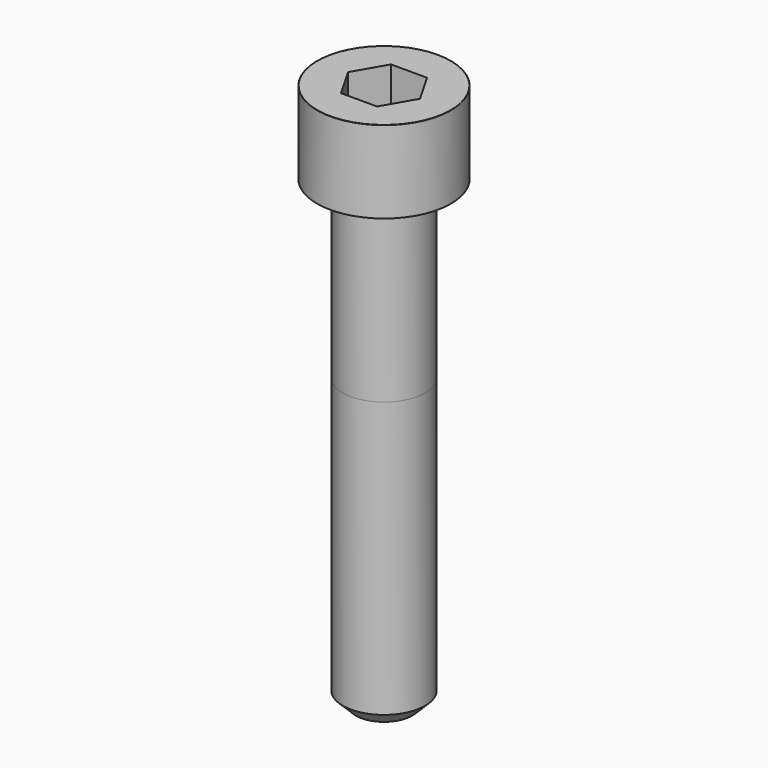
from build123d import *

# Parameters (mm, degrees)
POCKET_DEPTH = 6.06


with BuildPart() as part:
    # Sketch → Revolve (revolve)
    with BuildSketch(Plane.YZ):
        with BuildLine():
            Line((3.999, 0), (6.5, 0))
            Line((6.5, 0), (6.5, 7.97229))
            ThreePointArc((6.5, 7.97229), (6.491884, 7.991884), (6.47229, 8))
            Line((6.47229, 8), (0, 8))
            Line((0, -45), (0, 8))
            Line((2.75, -45), (0, -45))
            Line((4, -43.75), (2.75, -45))
            Line((4, -17), (4, -43.75))
            Line((3.999, 0), (4, -17))
        make_face()
    revolve(axis=Axis((0, 0, 0), (0, 0, 1)))

    # Sketch001 → Pocket (cut)
    with BuildSketch(Plane.XY.offset(8)):
        Polygon((3.498743, 0), (1.749371, 3.03), (-1.749371, 3.03), (-3.498743, 0), (-1.749371, -3.03), (1.749371, -3.03), align=None)
    extrude(amount=-POCKET_DEPTH, mode=Mode.SUBTRACT)


solid = part.part
